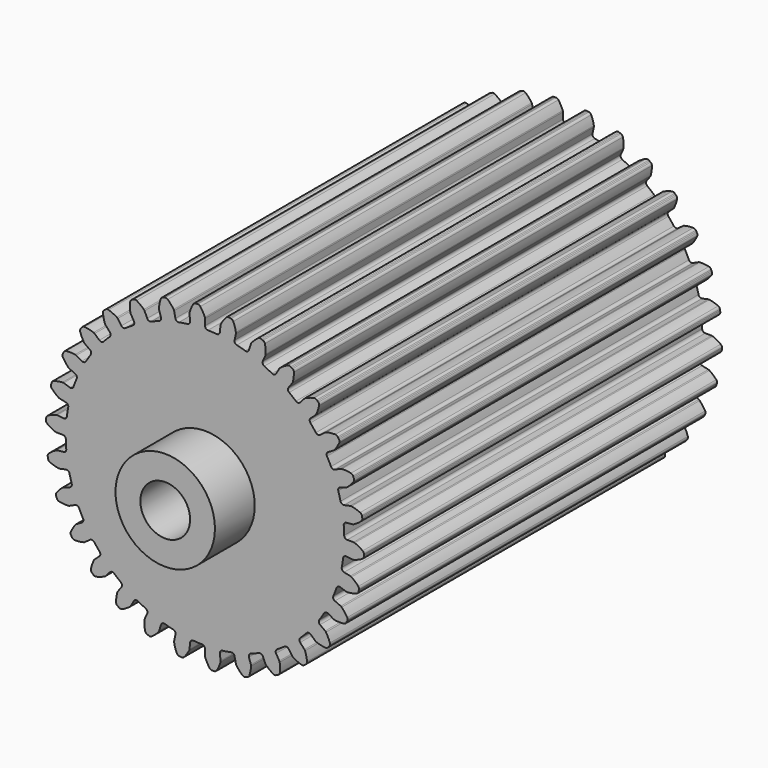
from build123d import *

# Parameters (mm, degrees)
F0_R      = 35.56
F1_DEPTH  = 57.15
F2_DEPTH  = 57.15
F4_DEPTH  = 57.15
F5_DEPTH  = 57.15
F7_R      = 12.7
F8_DEPTH  = 12.7
F9_R      = 6.35
F10_DEPTH = 127


with BuildPart() as f1:
    # F0 (on Front) → F1 (new body)
    with BuildSketch(Plane.XZ):
        Circle(F0_R)
    extrude(amount=F1_DEPTH)

    # F2 (add): a face of the model
    f2_faces = [f1.faces().sort_by_distance(p)[0] for p in [
        (0, 0, 0),
    ]]
    extrude(f2_faces, amount=F2_DEPTH)

    # F3 (on face) → F4 (join)
    with BuildSketch(Plane.XZ.offset(57.15)):
        with BuildLine():
            ThreePointArc((0, 37.9554687227), (-0.0139272083, 38.1004897499), (-0.0551997331, 38.2402096273))
            ThreePointArc((-0.0551997331, 38.2402096273), (-0.5573849588, 39.2950319065), (-1.1849257697, 40.2804417563))
            ThreePointArc((-1.1849257697, 40.2804417563), (-1.4733359372, 40.5202701245), (-1.8412279523, 40.5934379869))
            Line((-1.8412279523, 40.5934379869), (-2.1266280655, 40.5784808008))
            Line((-2.1266280655, 40.5784808008), (-2.4120281786, 40.5635236147))
            ThreePointArc((-2.4120281786, 40.5635236147), (-2.7702567185, 40.4523013865), (-3.0320180542, 40.1836397516))
            ThreePointArc((-3.0320180542, 40.1836397516), (-3.5531177536, 39.1380322034), (-3.9422930042, 38.0364957011))
            ThreePointArc((-3.9422930042, 38.0364957011), (-3.9687347297, 37.8932270702), (-3.9674268182, 37.7475446937))
            Line((-3.9674268182, 37.7475446937), (-3.7958472541, 36.1150741883))
            ThreePointArc((-3.7958472541, 36.1150741883), (-3.9564898602, 35.5621198218), (-4.4581413383, 35.2794355937))
            ThreePointArc((-4.4581413383, 35.2794355937), (-1.861066604, 35.5112662559), (0.746013986, 35.5521738173))
            ThreePointArc((0.746013986, 35.5521738173), (0.2175620592, 35.7808726135), (0, 36.3140061133))
            Line((0, 36.3140061133), (0, 37.9554687227))
        make_face()
        with BuildLine():
            ThreePointArc((-11.6957273592, 33.5815955776), (-9.2036052438, 34.3483223828), (-6.6620007801, 34.9303785494))
            ThreePointArc((-6.6620007801, 34.9303785494), (-7.2264539177, 35.0442083946), (-7.5501064114, 35.5204579528))
            Line((-7.5501064114, 35.5204579528), (-7.8913856779, 37.1260506659))
            ThreePointArc((-7.8913856779, 37.1260506659), (-7.9351601103, 37.2650070062), (-8.0045801273, 37.3930926286))
            ThreePointArc((-8.0045801273, 37.3930926286), (-8.7151012845, 38.3204543308), (-9.5338070511, 39.1538575402))
            ThreePointArc((-9.5338070511, 39.1538575402), (-9.865777886, 39.3284812375), (-10.2408430319, 39.3235611557))
            Line((-10.2408430319, 39.3235611557), (-10.516896694, 39.2495927999))
            Line((-10.516896694, 39.2495927999), (-10.792950356, 39.1756244441))
            ThreePointArc((-10.792950356, 39.1756244441), (-11.1202263414, 38.992352787), (-11.320409669, 38.6751388115))
            ThreePointArc((-11.320409669, 38.6751388115), (-11.6127280565, 37.5440375773), (-11.7643765774, 36.3856582061))
            ThreePointArc((-11.7643765774, 36.3856582061), (-11.7604532645, 36.2400227947), (-11.7288848648, 36.0977958578))
            Line((-11.7288848648, 36.0977958578), (-11.2216450229, 34.5366721469))
            ThreePointArc((-11.2216450229, 34.5366721469), (-11.2638115253, 33.9624016841), (-11.6957273592, 33.5815955776))
        make_face()
        with BuildLine():
            ThreePointArc((-18.4221539721, 30.4160786925), (-16.1439021707, 31.6841920001), (-13.7788541442, 32.7819581244))
            ThreePointArc((-13.7788541442, 32.7819581244), (-14.3546391821, 32.7759441082), (-14.7702369432, 33.1744953337))
            Line((-14.7702369432, 33.1744953337), (-15.4378799347, 34.6740460444))
            ThreePointArc((-15.4378799347, 34.6740460444), (-15.5095884383, 34.800864639), (-15.6041219597, 34.9117180502))
            ThreePointArc((-15.6041219597, 34.9117180502), (-16.4919258644, 35.671089019), (-17.4660152161, 36.3160618685))
            ThreePointArc((-17.4660152161, 36.3160618685), (-17.827038, 36.4178490015), (-18.19288413, 36.3350560066))
            Line((-18.19288413, 36.3350560066), (-18.4475264713, 36.2053092532))
            Line((-18.4475264713, 36.2053092532), (-18.7021688126, 36.0755624998))
            ThreePointArc((-18.7021688126, 36.0755624998), (-18.9841887123, 35.8282512646), (-19.11404506, 35.4763487215))
            ThreePointArc((-19.11404506, 35.4763487215), (-19.1648064192, 34.3091883529), (-19.0723004425, 33.1445928498))
            ThreePointArc((-19.0723004425, 33.1445928498), (-19.0381835588, 33.0029556242), (-18.9777343614, 32.8704001264))
            Line((-18.9777343614, 32.8704001264), (-18.1570030567, 31.4488518073))
            ThreePointArc((-18.1570030567, 31.4488518073), (-18.078850577, 30.8783636232), (-18.4221539721, 30.4160786925))
        make_face()
        with BuildLine():
            ThreePointArc((-24.3434440572, 25.921233216), (-22.3786331057, 27.6353103894), (-20.293505464, 29.2008088241))
            ThreePointArc((-20.293505464, 29.2008088241), (-20.8554578331, 29.0752137878), (-21.3448372451, 29.3786480795))
            Line((-21.3448372451, 29.3786480795), (-22.3096647591, 30.7066192262))
            ThreePointArc((-22.3096647591, 30.7066192262), (-22.4061733283, 30.815757494), (-22.5216887856, 30.9045338679))
            ThreePointArc((-22.5216887856, 30.9045338679), (-23.547974147, 31.4627259482), (-24.6348747049, 31.8910800293))
            ThreePointArc((-24.6348747049, 31.8910800293), (-25.0091710097, 31.9155820118), (-25.3498088925, 31.7585345551))
            Line((-25.3498088925, 31.7585345551), (-25.5719108208, 31.5786799598))
            Line((-25.5719108208, 31.5786799598), (-25.7940127491, 31.3988253645))
            ThreePointArc((-25.7940127491, 31.3988253645), (-26.0184509403, 31.098283239), (-26.0723049625, 30.7270719579))
            ThreePointArc((-26.0723049625, 30.7270719579), (-25.8792907785, 29.5748629637), (-25.5466732592, 28.4549497406))
            ThreePointArc((-25.5466732592, 28.4549497406), (-25.4838538761, 28.3235009271), (-25.3971658011, 28.2064101799))
            Line((-25.3971658011, 28.2064101799), (-24.2988129299, 26.9865657355))
            ThreePointArc((-24.2988129299, 26.9865657355), (-24.1037571065, 26.4447929012), (-24.3434440572, 25.921233216))
        make_face()
        with BuildLine():
            ThreePointArc((-29.2008088241, 20.293505464), (-27.6353103894, 22.3786331057), (-25.921233216, 24.3434440572))
            ThreePointArc((-25.921233216, 24.3434440572), (-26.4447929012, 24.1037571065), (-26.9865657355, 24.2988129299))
            Line((-26.9865657355, 24.2988129299), (-28.2064101799, 25.3971658011))
            ThreePointArc((-28.2064101799, 25.3971658011), (-28.3235009271, 25.4838538761), (-28.4549497406, 25.5466732592))
            ThreePointArc((-28.4549497406, 25.5466732592), (-29.5748629637, 25.8792907785), (-30.7270719579, 26.0723049625))
            ThreePointArc((-30.7270719579, 26.0723049625), (-31.098283239, 26.0184509403), (-31.3988253645, 25.7940127491))
            Line((-31.3988253645, 25.7940127491), (-31.5786799598, 25.5719108208))
            Line((-31.5786799598, 25.5719108208), (-31.7585345551, 25.3498088925))
            ThreePointArc((-31.7585345551, 25.3498088925), (-31.9155820118, 25.0091710097), (-31.8910800293, 24.6348747049))
            ThreePointArc((-31.8910800293, 24.6348747049), (-31.4627259482, 23.547974147), (-30.9045338679, 22.5216887856))
            ThreePointArc((-30.9045338679, 22.5216887856), (-30.815757494, 22.4061733283), (-30.7066192262, 22.3096647591))
            Line((-30.7066192262, 22.3096647591), (-29.3786480795, 21.3448372451))
            ThreePointArc((-29.3786480795, 21.3448372451), (-29.0752137878, 20.8554578331), (-29.2008088241, 20.293505464))
        make_face()
        with BuildLine():
            ThreePointArc((-32.7819581244, 13.7788541442), (-31.6841920001, 16.1439021707), (-30.4160786925, 18.4221539721))
            ThreePointArc((-30.4160786925, 18.4221539721), (-30.8783636232, 18.078850577), (-31.4488518073, 18.1570030567))
            Line((-31.4488518073, 18.1570030567), (-32.8704001264, 18.9777343614))
            ThreePointArc((-32.8704001264, 18.9777343614), (-33.0029556242, 19.0381835588), (-33.1445928498, 19.0723004425))
            ThreePointArc((-33.1445928498, 19.0723004425), (-34.3091883529, 19.1648064192), (-35.4763487215, 19.11404506))
            ThreePointArc((-35.4763487215, 19.11404506), (-35.8282512646, 18.9841887123), (-36.0755624998, 18.7021688126))
            Line((-36.0755624998, 18.7021688126), (-36.2053092532, 18.4475264713))
            Line((-36.2053092532, 18.4475264713), (-36.3350560066, 18.19288413))
            ThreePointArc((-36.3350560066, 18.19288413), (-36.4178490015, 17.827038), (-36.3160618685, 17.4660152161))
            ThreePointArc((-36.3160618685, 17.4660152161), (-35.671089019, 16.4919258644), (-34.9117180502, 15.6041219597))
            ThreePointArc((-34.9117180502, 15.6041219597), (-34.800864639, 15.5095884383), (-34.6740460444, 15.4378799347))
            Line((-34.6740460444, 15.4378799347), (-33.1744953337, 14.7702369432))
            ThreePointArc((-33.1744953337, 14.7702369432), (-32.7759441082, 14.3546391821), (-32.7819581244, 13.7788541442))
        make_face()
        with BuildLine():
            ThreePointArc((-34.9303785494, 6.6620007801), (-34.3483223828, 9.2036052438), (-33.5815955776, 11.6957273592))
            ThreePointArc((-33.5815955776, 11.6957273592), (-33.9624016841, 11.2638115253), (-34.5366721469, 11.2216450229))
            Line((-34.5366721469, 11.2216450229), (-36.0977958578, 11.7288848648))
            ThreePointArc((-36.0977958578, 11.7288848648), (-36.2400227947, 11.7604532645), (-36.3856582061, 11.7643765774))
            ThreePointArc((-36.3856582061, 11.7643765774), (-37.5440375773, 11.6127280565), (-38.6751388115, 11.320409669))
            ThreePointArc((-38.6751388115, 11.320409669), (-38.992352787, 11.1202263414), (-39.1756244441, 10.792950356))
            Line((-39.1756244441, 10.792950356), (-39.2495927999, 10.516896694))
            Line((-39.2495927999, 10.516896694), (-39.3235611557, 10.2408430319))
            ThreePointArc((-39.3235611557, 10.2408430319), (-39.3284812375, 9.865777886), (-39.1538575402, 9.5338070511))
            ThreePointArc((-39.1538575402, 9.5338070511), (-38.3204543308, 8.7151012845), (-37.3930926286, 8.0045801273))
            ThreePointArc((-37.3930926286, 8.0045801273), (-37.2650070062, 7.9351601103), (-37.1260506659, 7.8913856779))
            Line((-37.1260506659, 7.8913856779), (-35.5204579528, 7.5501064114))
            ThreePointArc((-35.5204579528, 7.5501064114), (-35.0442083946, 7.2264539177), (-34.9303785494, 6.6620007801))
        make_face()
        with BuildLine():
            ThreePointArc((-35.5521738173, -0.746013986), (-35.5112662559, 1.861066604), (-35.2794355937, 4.4581413383))
            ThreePointArc((-35.2794355937, 4.4581413383), (-35.5621198218, 3.9564898602), (-36.1150741883, 3.7958472541))
            Line((-36.1150741883, 3.7958472541), (-37.7475446937, 3.9674268182))
            ThreePointArc((-37.7475446937, 3.9674268182), (-37.8932270702, 3.9687347297), (-38.0364957011, 3.9422930042))
            ThreePointArc((-38.0364957011, 3.9422930042), (-39.1380322034, 3.5531177536), (-40.1836397516, 3.0320180542))
            ThreePointArc((-40.1836397516, 3.0320180542), (-40.4523013865, 2.7702567185), (-40.5635236147, 2.4120281786))
            Line((-40.5635236147, 2.4120281786), (-40.5784808008, 2.1266280654))
            Line((-40.5784808008, 2.1266280654), (-40.5934379869, 1.8412279523))
            ThreePointArc((-40.5934379869, 1.8412279523), (-40.5202701245, 1.4733359372), (-40.2804417563, 1.1849257697))
            ThreePointArc((-40.2804417563, 1.1849257697), (-39.2950319065, 0.5573849588), (-38.2402096273, 0.0551997331))
            ThreePointArc((-38.2402096273, 0.0551997331), (-38.1004897499, 0.0139272083), (-37.9554687227, 0))
            Line((-37.9554687227, 0), (-36.3140061133, 0))
            ThreePointArc((-36.3140061133, 0), (-35.7808726135, -0.2175620592), (-35.5521738173, -0.746013986))
        make_face()
        with BuildLine():
            ThreePointArc((-34.620168491, -8.1214243611), (-35.1221973916, -5.5628095768), (-35.4353949847, -2.9742868516))
            ThreePointArc((-35.4353949847, -2.9742868516), (-35.6076026772, -3.5237493971), (-36.1150741883, -3.7958472541))
            Line((-36.1150741883, -3.7958472541), (-37.7475446937, -3.9674268182))
            ThreePointArc((-37.7475446937, -3.9674268182), (-37.8903154908, -3.9964365569), (-38.0249558145, -4.0520876906))
            ThreePointArc((-38.0249558145, -4.0520876906), (-39.021507017, -4.6617808449), (-39.935922812, -5.3888872989))
            ThreePointArc((-39.935922812, -5.3888872989), (-40.1442903037, -5.7007864161), (-40.1786021579, -6.0743112045))
            Line((-40.1786021579, -6.0743112045), (-40.1338944736, -6.3565844142))
            Line((-40.1338944736, -6.3565844142), (-40.0891867892, -6.638857624))
            ThreePointArc((-40.0891867892, -6.638857624), (-39.9411287692, -6.9834978619), (-39.6465773807, -7.2157424538))
            ThreePointArc((-39.6465773807, -7.2157424538), (-38.5522280293, -7.6246917643), (-37.4160459683, -7.8965931543))
            ThreePointArc((-37.4160459683, -7.8965931543), (-37.2707982651, -7.9079143795), (-37.1260506659, -7.8913856779))
            Line((-37.1260506659, -7.8913856779), (-35.5204579528, -7.5501064114))
            ThreePointArc((-35.5204579528, -7.5501064114), (-34.9537410034, -7.6520695303), (-34.620168491, -8.1214243611))
        make_face()
        with BuildLine():
            ThreePointArc((-32.1750956757, -15.1418895207), (-33.1981199662, -12.7435642858), (-34.0426575771, -10.2767244339))
            ThreePointArc((-34.0426575771, -10.2767244339), (-34.0968624314, -10.849983897), (-34.5366721469, -11.2216450229))
            Line((-34.5366721469, -11.2216450229), (-36.0977958578, -11.7288848648))
            ThreePointArc((-36.0977958578, -11.7288848648), (-36.2314153066, -11.7869443889), (-36.3515428949, -11.8693727091))
            ThreePointArc((-36.3515428949, -11.8693727091), (-37.199554728, -12.6729372507), (-37.9428144117, -13.5742724182))
            ThreePointArc((-37.9428144117, -13.5742724182), (-38.0817811009, -13.9226778289), (-38.0376829885, -14.2951740401))
            Line((-38.0376829885, -14.2951740401), (-37.935264374, -14.5619836528))
            Line((-37.935264374, -14.5619836528), (-37.8328457595, -14.8287932654))
            ThreePointArc((-37.8328457595, -14.8287932654), (-37.6163684279, -15.135119294), (-37.2799673282, -15.301048107))
            ThreePointArc((-37.2799673282, -15.301048107), (-36.1245067931, -15.4735328699), (-34.9566215584, -15.5032670289))
            ThreePointArc((-34.9566215584, -15.5032670289), (-34.8121940509, -15.4841421625), (-34.6740460444, -15.4378799347))
            Line((-34.6740460444, -15.4378799347), (-33.1744953337, -14.7702369432))
            ThreePointArc((-33.1744953337, -14.7702369432), (-32.5989631849, -14.7521448441), (-32.1750956757, -15.1418895207))
        make_face()
        with BuildLine():
            ThreePointArc((-28.3238167862, -21.5005814495), (-29.8231253961, -19.3673640851), (-31.1620926785, -17.1300198452))
            ThreePointArc((-31.1620926785, -17.1300198452), (-31.0959256825, -17.7020220365), (-31.4488518073, -18.1570030567))
            Line((-31.4488518073, -18.1570030567), (-32.8704001264, -18.9777343614))
            ThreePointArc((-32.8704001264, -18.9777343614), (-32.9890284159, -19.0623061911), (-33.0893931167, -19.1679091848))
            ThreePointArc((-33.0893931167, -19.1679091848), (-33.7518033941, -20.1302254872), (-34.2914229518, -21.1663966963))
            ThreePointArc((-34.2914229518, -21.1663966963), (-34.3549153274, -21.5360814122), (-34.2343345475, -21.8912691743))
            Line((-34.2343345475, -21.8912691743), (-34.0786811878, -22.1309543295))
            Line((-34.0786811878, -22.1309543295), (-33.923027828, -22.3706394846))
            ThreePointArc((-33.923027828, -22.3706394846), (-33.6475922829, -22.6252633865), (-33.2840438143, -22.7176245354))
            ThreePointArc((-33.2840438143, -22.7176245354), (-32.1179712655, -22.6461063389), (-30.969425046, -22.4323737413))
            ThreePointArc((-30.969425046, -22.4323737413), (-30.8321299093, -22.3836386319), (-30.7066192262, -22.3096647591))
            Line((-30.7066192262, -22.3096647591), (-29.3786480795, -21.3448372451))
            ThreePointArc((-29.3786480795, -21.3448372451), (-28.819454248, -21.2074806396), (-28.3238167862, -21.5005814495))
        make_face()
        with BuildLine():
            ThreePointArc((-23.2346511903, -26.9195947976), (-25.144717139, -25.144717139), (-26.9195947976, -23.2346511903))
            ThreePointArc((-26.9195947976, -23.2346511903), (-26.7359477664, -23.7803968694), (-26.9865657355, -24.2988129299))
            Line((-26.9865657355, -24.2988129299), (-28.2064101799, -25.3971658011))
            ThreePointArc((-28.2064101799, -25.3971658011), (-28.3048626844, -25.5045537417), (-28.3810780788, -25.6287160512))
            ThreePointArc((-28.3810780788, -25.6287160512), (-28.8289362928, -26.7077262744), (-29.1413317604, -27.8334478711))
            ThreePointArc((-29.1413317604, -27.8334478711), (-29.126574901, -28.2082548961), (-28.9347814122, -28.5306107997))
            Line((-28.9347814122, -28.5306107997), (-28.7326961059, -28.7326961059))
            Line((-28.7326961059, -28.7326961059), (-28.5306107997, -28.9347814122))
            ThreePointArc((-28.5306107997, -28.9347814122), (-28.2082548961, -29.126574901), (-27.8334478711, -29.1413317604))
            ThreePointArc((-27.8334478711, -29.1413317604), (-26.7077262744, -28.8289362928), (-25.6287160512, -28.3810780788))
            ThreePointArc((-25.6287160512, -28.3810780788), (-25.5045537417, -28.3048626844), (-25.3971658011, -28.2064101799))
            Line((-25.3971658011, -28.2064101799), (-24.2988129299, -26.9865657355))
            ThreePointArc((-24.2988129299, -26.9865657355), (-23.7803968694, -26.7359477664), (-23.2346511903, -26.9195947976))
        make_face()
        with BuildLine():
            ThreePointArc((-17.1300198452, -31.1620926785), (-19.3673640851, -29.8231253961), (-21.5005814495, -28.3238167862))
            ThreePointArc((-21.5005814495, -28.3238167862), (-21.2074806396, -28.819454248), (-21.3448372451, -29.3786480795))
            Line((-21.3448372451, -29.3786480795), (-22.3096647591, -30.7066192262))
            ThreePointArc((-22.3096647591, -30.7066192262), (-22.3836386319, -30.8321299093), (-22.4323737413, -30.969425046))
            ThreePointArc((-22.4323737413, -30.969425046), (-22.6461063389, -32.1179712655), (-22.7176245354, -33.2840438143))
            ThreePointArc((-22.7176245354, -33.2840438143), (-22.6252633865, -33.6475922829), (-22.3706394846, -33.923027828))
            Line((-22.3706394846, -33.923027828), (-22.1309543295, -34.0786811878))
            Line((-22.1309543295, -34.0786811878), (-21.8912691743, -34.2343345475))
            ThreePointArc((-21.8912691743, -34.2343345475), (-21.5360814122, -34.3549153274), (-21.1663966963, -34.2914229518))
            ThreePointArc((-21.1663966963, -34.2914229518), (-20.1302254872, -33.7518033941), (-19.1679091848, -33.0893931167))
            ThreePointArc((-19.1679091848, -33.0893931167), (-19.0623061911, -32.9890284159), (-18.9777343614, -32.8704001264))
            Line((-18.9777343614, -32.8704001264), (-18.1570030567, -31.4488518073))
            ThreePointArc((-18.1570030567, -31.4488518073), (-17.7020220365, -31.0959256825), (-17.1300198452, -31.1620926785))
        make_face()
        with BuildLine():
            ThreePointArc((-10.2767244339, -34.0426575771), (-12.7435642858, -33.1981199662), (-15.1418895207, -32.1750956757))
            ThreePointArc((-15.1418895207, -32.1750956757), (-14.7521448441, -32.5989631849), (-14.7702369432, -33.1744953337))
            Line((-14.7702369432, -33.1744953337), (-15.4378799347, -34.6740460444))
            ThreePointArc((-15.4378799347, -34.6740460444), (-15.4841421625, -34.8121940509), (-15.5032670289, -34.9566215584))
            ThreePointArc((-15.5032670289, -34.9566215584), (-15.4735328699, -36.1245067931), (-15.301048107, -37.2799673282))
            ThreePointArc((-15.301048107, -37.2799673282), (-15.135119294, -37.6163684279), (-14.8287932654, -37.8328457595))
            Line((-14.8287932654, -37.8328457595), (-14.5619836528, -37.935264374))
            Line((-14.5619836528, -37.935264374), (-14.2951740401, -38.0376829885))
            ThreePointArc((-14.2951740401, -38.0376829885), (-13.9226778289, -38.0817811009), (-13.5742724182, -37.9428144117))
            ThreePointArc((-13.5742724182, -37.9428144117), (-12.6729372507, -37.199554728), (-11.8693727091, -36.3515428949))
            ThreePointArc((-11.8693727091, -36.3515428949), (-11.7869443889, -36.2314153066), (-11.7288848648, -36.0977958578))
            Line((-11.7288848648, -36.0977958578), (-11.2216450229, -34.5366721469))
            ThreePointArc((-11.2216450229, -34.5366721469), (-10.849983897, -34.0968624314), (-10.2767244339, -34.0426575771))
        make_face()
        with BuildLine():
            ThreePointArc((-2.9742868516, -35.4353949847), (-5.5628095768, -35.1221973916), (-8.1214243611, -34.620168491))
            ThreePointArc((-8.1214243611, -34.620168491), (-7.6520695303, -34.9537410034), (-7.5501064114, -35.5204579528))
            Line((-7.5501064114, -35.5204579528), (-7.8913856779, -37.1260506659))
            ThreePointArc((-7.8913856779, -37.1260506659), (-7.9079143795, -37.2707982651), (-7.8965931543, -37.4160459683))
            ThreePointArc((-7.8965931543, -37.4160459683), (-7.6246917643, -38.5522280293), (-7.2157424538, -39.6465773807))
            ThreePointArc((-7.2157424538, -39.6465773807), (-6.9834978619, -39.9411287692), (-6.638857624, -40.0891867892))
            Line((-6.638857624, -40.0891867892), (-6.3565844142, -40.1338944736))
            Line((-6.3565844142, -40.1338944736), (-6.0743112045, -40.1786021579))
            ThreePointArc((-6.0743112045, -40.1786021579), (-5.7007864161, -40.1442903037), (-5.3888872989, -39.935922812))
            ThreePointArc((-5.3888872989, -39.935922812), (-4.6617808449, -39.021507017), (-4.0520876906, -38.0249558145))
            ThreePointArc((-4.0520876906, -38.0249558145), (-3.9964365569, -37.8903154908), (-3.9674268182, -37.7475446937))
            Line((-3.9674268182, -37.7475446937), (-3.7958472541, -36.1150741883))
            ThreePointArc((-3.7958472541, -36.1150741883), (-3.5237493971, -35.6076026772), (-2.9742868516, -35.4353949847))
        make_face()
        with BuildLine():
            ThreePointArc((4.4581413383, -35.2794355937), (1.861066604, -35.5112662559), (-0.746013986, -35.5521738173))
            ThreePointArc((-0.746013986, -35.5521738173), (-0.2175620592, -35.7808726135), (0, -36.3140061133))
            Line((0, -36.3140061133), (0, -37.9554687227))
            ThreePointArc((0, -37.9554687227), (0.0139272083, -38.1004897499), (0.0551997331, -38.2402096273))
            ThreePointArc((0.0551997331, -38.2402096273), (0.5573849588, -39.2950319065), (1.1849257697, -40.2804417563))
            ThreePointArc((1.1849257697, -40.2804417563), (1.4733359372, -40.5202701245), (1.8412279523, -40.5934379869))
            Line((1.8412279523, -40.5934379869), (2.1266280655, -40.5784808008))
            Line((2.1266280655, -40.5784808008), (2.4120281786, -40.5635236147))
            ThreePointArc((2.4120281786, -40.5635236147), (2.7702567185, -40.4523013865), (3.0320180542, -40.1836397516))
            ThreePointArc((3.0320180542, -40.1836397516), (3.5531177536, -39.1380322034), (3.9422930042, -38.0364957011))
            ThreePointArc((3.9422930042, -38.0364957011), (3.9687347297, -37.8932270702), (3.9674268182, -37.7475446937))
            Line((3.9674268182, -37.7475446937), (3.7958472541, -36.1150741883))
            ThreePointArc((3.7958472541, -36.1150741883), (3.9564898602, -35.5621198218), (4.4581413383, -35.2794355937))
        make_face()
        with BuildLine():
            ThreePointArc((11.6957273592, -33.5815955776), (9.2036052438, -34.3483223828), (6.6620007801, -34.9303785494))
            ThreePointArc((6.6620007801, -34.9303785494), (7.2264539177, -35.0442083946), (7.5501064114, -35.5204579528))
            Line((7.5501064114, -35.5204579528), (7.8913856779, -37.1260506659))
            ThreePointArc((7.8913856779, -37.1260506659), (7.9351601103, -37.2650070062), (8.0045801273, -37.3930926286))
            ThreePointArc((8.0045801273, -37.3930926286), (8.7151012845, -38.3204543308), (9.5338070511, -39.1538575402))
            ThreePointArc((9.5338070511, -39.1538575402), (9.865777886, -39.3284812375), (10.2408430319, -39.3235611557))
            Line((10.2408430319, -39.3235611557), (10.516896694, -39.2495927999))
            Line((10.516896694, -39.2495927999), (10.792950356, -39.1756244441))
            ThreePointArc((10.792950356, -39.1756244441), (11.1202263414, -38.992352787), (11.320409669, -38.6751388115))
            ThreePointArc((11.320409669, -38.6751388115), (11.6127280565, -37.5440375773), (11.7643765774, -36.3856582061))
            ThreePointArc((11.7643765774, -36.3856582061), (11.7604532645, -36.2400227947), (11.7288848648, -36.0977958578))
            Line((11.7288848648, -36.0977958578), (11.2216450229, -34.5366721469))
            ThreePointArc((11.2216450229, -34.5366721469), (11.2638115253, -33.9624016841), (11.6957273592, -33.5815955776))
        make_face()
        with BuildLine():
            ThreePointArc((18.4221539721, -30.4160786925), (16.1439021707, -31.6841920001), (13.7788541442, -32.7819581244))
            ThreePointArc((13.7788541442, -32.7819581244), (14.3546391821, -32.7759441082), (14.7702369432, -33.1744953337))
            Line((14.7702369432, -33.1744953337), (15.4378799347, -34.6740460444))
            ThreePointArc((15.4378799347, -34.6740460444), (15.5095884383, -34.800864639), (15.6041219597, -34.9117180502))
            ThreePointArc((15.6041219597, -34.9117180502), (16.4919258644, -35.671089019), (17.4660152161, -36.3160618685))
            ThreePointArc((17.4660152161, -36.3160618685), (17.827038, -36.4178490015), (18.19288413, -36.3350560066))
            Line((18.19288413, -36.3350560066), (18.4475264713, -36.2053092532))
            Line((18.4475264713, -36.2053092532), (18.7021688126, -36.0755624998))
            ThreePointArc((18.7021688126, -36.0755624998), (18.9841887123, -35.8282512646), (19.11404506, -35.4763487215))
            ThreePointArc((19.11404506, -35.4763487215), (19.1648064192, -34.3091883529), (19.0723004425, -33.1445928498))
            ThreePointArc((19.0723004425, -33.1445928498), (19.0381835588, -33.0029556242), (18.9777343614, -32.8704001264))
            Line((18.9777343614, -32.8704001264), (18.1570030567, -31.4488518073))
            ThreePointArc((18.1570030567, -31.4488518073), (18.078850577, -30.8783636232), (18.4221539721, -30.4160786925))
        make_face()
        with BuildLine():
            ThreePointArc((24.3434440572, -25.921233216), (22.3786331057, -27.6353103894), (20.293505464, -29.2008088241))
            ThreePointArc((20.293505464, -29.2008088241), (20.8554578331, -29.0752137878), (21.3448372451, -29.3786480795))
            Line((21.3448372451, -29.3786480795), (22.3096647591, -30.7066192262))
            ThreePointArc((22.3096647591, -30.7066192262), (22.4061733283, -30.815757494), (22.5216887856, -30.9045338679))
            ThreePointArc((22.5216887856, -30.9045338679), (23.547974147, -31.4627259482), (24.6348747049, -31.8910800293))
            ThreePointArc((24.6348747049, -31.8910800293), (25.0091710097, -31.9155820118), (25.3498088925, -31.7585345551))
            Line((25.3498088925, -31.7585345551), (25.5719108208, -31.5786799598))
            Line((25.5719108208, -31.5786799598), (25.7940127491, -31.3988253645))
            ThreePointArc((25.7940127491, -31.3988253645), (26.0184509403, -31.098283239), (26.0723049625, -30.7270719579))
            ThreePointArc((26.0723049625, -30.7270719579), (25.8792907785, -29.5748629637), (25.5466732592, -28.4549497406))
            ThreePointArc((25.5466732592, -28.4549497406), (25.4838538761, -28.3235009271), (25.3971658011, -28.2064101799))
            Line((25.3971658011, -28.2064101799), (24.2988129299, -26.9865657355))
            ThreePointArc((24.2988129299, -26.9865657355), (24.1037571065, -26.4447929012), (24.3434440572, -25.921233216))
        make_face()
        with BuildLine():
            ThreePointArc((29.2008088241, -20.293505464), (27.6353103894, -22.3786331057), (25.921233216, -24.3434440572))
            ThreePointArc((25.921233216, -24.3434440572), (26.4447929012, -24.1037571065), (26.9865657355, -24.2988129299))
            Line((26.9865657355, -24.2988129299), (28.2064101799, -25.3971658011))
            ThreePointArc((28.2064101799, -25.3971658011), (28.3235009271, -25.4838538761), (28.4549497406, -25.5466732592))
            ThreePointArc((28.4549497406, -25.5466732592), (29.5748629637, -25.8792907785), (30.7270719579, -26.0723049625))
            ThreePointArc((30.7270719579, -26.0723049625), (31.098283239, -26.0184509403), (31.3988253645, -25.7940127491))
            Line((31.3988253645, -25.7940127491), (31.5786799598, -25.5719108208))
            Line((31.5786799598, -25.5719108208), (31.7585345551, -25.3498088925))
            ThreePointArc((31.7585345551, -25.3498088925), (31.9155820118, -25.0091710097), (31.8910800293, -24.6348747049))
            ThreePointArc((31.8910800293, -24.6348747049), (31.4627259482, -23.547974147), (30.9045338679, -22.5216887856))
            ThreePointArc((30.9045338679, -22.5216887856), (30.815757494, -22.4061733283), (30.7066192262, -22.3096647591))
            Line((30.7066192262, -22.3096647591), (29.3786480795, -21.3448372451))
            ThreePointArc((29.3786480795, -21.3448372451), (29.0752137878, -20.8554578331), (29.2008088241, -20.293505464))
        make_face()
        with BuildLine():
            ThreePointArc((32.7819581244, -13.7788541442), (31.6841920001, -16.1439021707), (30.4160786925, -18.4221539721))
            ThreePointArc((30.4160786925, -18.4221539721), (30.8783636232, -18.078850577), (31.4488518073, -18.1570030567))
            Line((31.4488518073, -18.1570030567), (32.8704001264, -18.9777343614))
            ThreePointArc((32.8704001264, -18.9777343614), (33.0029556242, -19.0381835588), (33.1445928498, -19.0723004425))
            ThreePointArc((33.1445928498, -19.0723004425), (34.3091883529, -19.1648064192), (35.4763487215, -19.11404506))
            ThreePointArc((35.4763487215, -19.11404506), (35.8282512646, -18.9841887123), (36.0755624998, -18.7021688126))
            Line((36.0755624998, -18.7021688126), (36.2053092532, -18.4475264713))
            Line((36.2053092532, -18.4475264713), (36.3350560066, -18.19288413))
            ThreePointArc((36.3350560066, -18.19288413), (36.4178490015, -17.827038), (36.3160618685, -17.4660152161))
            ThreePointArc((36.3160618685, -17.4660152161), (35.671089019, -16.4919258644), (34.9117180502, -15.6041219597))
            ThreePointArc((34.9117180502, -15.6041219597), (34.800864639, -15.5095884383), (34.6740460444, -15.4378799347))
            Line((34.6740460444, -15.4378799347), (33.1744953337, -14.7702369432))
            ThreePointArc((33.1744953337, -14.7702369432), (32.7759441082, -14.3546391821), (32.7819581244, -13.7788541442))
        make_face()
        with BuildLine():
            ThreePointArc((34.9303785494, -6.6620007801), (34.3483223828, -9.2036052438), (33.5815955776, -11.6957273592))
            ThreePointArc((33.5815955776, -11.6957273592), (33.9624016841, -11.2638115253), (34.5366721469, -11.2216450229))
            Line((34.5366721469, -11.2216450229), (36.0977958578, -11.7288848648))
            ThreePointArc((36.0977958578, -11.7288848648), (36.2400227947, -11.7604532645), (36.3856582061, -11.7643765774))
            ThreePointArc((36.3856582061, -11.7643765774), (37.5440375773, -11.6127280565), (38.6751388115, -11.320409669))
            ThreePointArc((38.6751388115, -11.320409669), (38.992352787, -11.1202263414), (39.1756244441, -10.792950356))
            Line((39.1756244441, -10.792950356), (39.2495927999, -10.516896694))
            Line((39.2495927999, -10.516896694), (39.3235611557, -10.2408430319))
            ThreePointArc((39.3235611557, -10.2408430319), (39.3284812375, -9.865777886), (39.1538575402, -9.5338070511))
            ThreePointArc((39.1538575402, -9.5338070511), (38.3204543308, -8.7151012845), (37.3930926286, -8.0045801273))
            ThreePointArc((37.3930926286, -8.0045801273), (37.2650070062, -7.9351601103), (37.1260506659, -7.8913856779))
            Line((37.1260506659, -7.8913856779), (35.5204579528, -7.5501064114))
            ThreePointArc((35.5204579528, -7.5501064114), (35.0442083946, -7.2264539177), (34.9303785494, -6.6620007801))
        make_face()
        with BuildLine():
            ThreePointArc((35.5521738173, 0.746013986), (35.5112662559, -1.861066604), (35.2794355937, -4.4581413383))
            ThreePointArc((35.2794355937, -4.4581413383), (35.5621198218, -3.9564898602), (36.1150741883, -3.7958472541))
            Line((36.1150741883, -3.7958472541), (37.7475446937, -3.9674268182))
            ThreePointArc((37.7475446937, -3.9674268182), (37.8932270702, -3.9687347297), (38.0364957011, -3.9422930042))
            ThreePointArc((38.0364957011, -3.9422930042), (39.1380322034, -3.5531177536), (40.1836397516, -3.0320180542))
            ThreePointArc((40.1836397516, -3.0320180542), (40.4523013865, -2.7702567185), (40.5635236147, -2.4120281786))
            Line((40.5635236147, -2.4120281786), (40.5784808008, -2.1266280654))
            Line((40.5784808008, -2.1266280654), (40.5934379869, -1.8412279523))
            ThreePointArc((40.5934379869, -1.8412279523), (40.5202701245, -1.4733359372), (40.2804417563, -1.1849257697))
            ThreePointArc((40.2804417563, -1.1849257697), (39.2950319065, -0.5573849588), (38.2402096273, -0.0551997331))
            ThreePointArc((38.2402096273, -0.0551997331), (38.1004897499, -0.0139272083), (37.9554687227, 0))
            Line((37.9554687227, 0), (36.3140061133, 0))
            ThreePointArc((36.3140061133, 0), (35.7808726135, 0.2175620592), (35.5521738173, 0.746013986))
        make_face()
        with BuildLine():
            ThreePointArc((34.620168491, 8.1214243611), (35.1221973916, 5.5628095768), (35.4353949847, 2.9742868516))
            ThreePointArc((35.4353949847, 2.9742868516), (35.6076026772, 3.5237493971), (36.1150741883, 3.7958472541))
            Line((36.1150741883, 3.7958472541), (37.7475446937, 3.9674268182))
            ThreePointArc((37.7475446937, 3.9674268182), (37.8903154908, 3.9964365569), (38.0249558145, 4.0520876906))
            ThreePointArc((38.0249558145, 4.0520876906), (39.021507017, 4.6617808449), (39.935922812, 5.3888872989))
            ThreePointArc((39.935922812, 5.3888872989), (40.1442903037, 5.7007864161), (40.1786021579, 6.0743112045))
            Line((40.1786021579, 6.0743112045), (40.1338944736, 6.3565844142))
            Line((40.1338944736, 6.3565844142), (40.0891867892, 6.638857624))
            ThreePointArc((40.0891867892, 6.638857624), (39.9411287692, 6.9834978619), (39.6465773807, 7.2157424538))
            ThreePointArc((39.6465773807, 7.2157424538), (38.5522280293, 7.6246917643), (37.4160459683, 7.8965931543))
            ThreePointArc((37.4160459683, 7.8965931543), (37.2707982651, 7.9079143795), (37.1260506659, 7.8913856779))
            Line((37.1260506659, 7.8913856779), (35.5204579528, 7.5501064114))
            ThreePointArc((35.5204579528, 7.5501064114), (34.9537410034, 7.6520695303), (34.620168491, 8.1214243611))
        make_face()
        with BuildLine():
            ThreePointArc((32.1750956757, 15.1418895207), (33.1981199662, 12.7435642858), (34.0426575771, 10.2767244339))
            ThreePointArc((34.0426575771, 10.2767244339), (34.0968624314, 10.849983897), (34.5366721469, 11.2216450229))
            Line((34.5366721469, 11.2216450229), (36.0977958578, 11.7288848648))
            ThreePointArc((36.0977958578, 11.7288848648), (36.2314153066, 11.7869443889), (36.3515428949, 11.8693727091))
            ThreePointArc((36.3515428949, 11.8693727091), (37.199554728, 12.6729372507), (37.9428144117, 13.5742724182))
            ThreePointArc((37.9428144117, 13.5742724182), (38.0817811009, 13.9226778289), (38.0376829885, 14.2951740401))
            Line((38.0376829885, 14.2951740401), (37.935264374, 14.5619836528))
            Line((37.935264374, 14.5619836528), (37.8328457595, 14.8287932654))
            ThreePointArc((37.8328457595, 14.8287932654), (37.6163684279, 15.135119294), (37.2799673282, 15.301048107))
            ThreePointArc((37.2799673282, 15.301048107), (36.1245067931, 15.4735328699), (34.9566215584, 15.5032670289))
            ThreePointArc((34.9566215584, 15.5032670289), (34.8121940509, 15.4841421625), (34.6740460444, 15.4378799347))
            Line((34.6740460444, 15.4378799347), (33.1744953337, 14.7702369432))
            ThreePointArc((33.1744953337, 14.7702369432), (32.5989631849, 14.7521448441), (32.1750956757, 15.1418895207))
        make_face()
        with BuildLine():
            ThreePointArc((28.3238167862, 21.5005814495), (29.8231253961, 19.3673640851), (31.1620926785, 17.1300198452))
            ThreePointArc((31.1620926785, 17.1300198452), (31.0959256825, 17.7020220365), (31.4488518073, 18.1570030567))
            Line((31.4488518073, 18.1570030567), (32.8704001264, 18.9777343614))
            ThreePointArc((32.8704001264, 18.9777343614), (32.9890284159, 19.0623061911), (33.0893931167, 19.1679091848))
            ThreePointArc((33.0893931167, 19.1679091848), (33.7518033941, 20.1302254872), (34.2914229518, 21.1663966963))
            ThreePointArc((34.2914229518, 21.1663966963), (34.3549153274, 21.5360814122), (34.2343345475, 21.8912691743))
            Line((34.2343345475, 21.8912691743), (34.0786811878, 22.1309543295))
            Line((34.0786811878, 22.1309543295), (33.923027828, 22.3706394846))
            ThreePointArc((33.923027828, 22.3706394846), (33.6475922829, 22.6252633865), (33.2840438143, 22.7176245354))
            ThreePointArc((33.2840438143, 22.7176245354), (32.1179712655, 22.6461063389), (30.969425046, 22.4323737413))
            ThreePointArc((30.969425046, 22.4323737413), (30.8321299093, 22.3836386319), (30.7066192262, 22.3096647591))
            Line((30.7066192262, 22.3096647591), (29.3786480795, 21.3448372451))
            ThreePointArc((29.3786480795, 21.3448372451), (28.819454248, 21.2074806396), (28.3238167862, 21.5005814495))
        make_face()
        with BuildLine():
            ThreePointArc((23.2346511903, 26.9195947976), (25.144717139, 25.144717139), (26.9195947976, 23.2346511903))
            ThreePointArc((26.9195947976, 23.2346511903), (26.7359477664, 23.7803968694), (26.9865657355, 24.2988129299))
            Line((26.9865657355, 24.2988129299), (28.2064101799, 25.3971658011))
            ThreePointArc((28.2064101799, 25.3971658011), (28.3048626844, 25.5045537417), (28.3810780788, 25.6287160512))
            ThreePointArc((28.3810780788, 25.6287160512), (28.8289362928, 26.7077262744), (29.1413317604, 27.8334478711))
            ThreePointArc((29.1413317604, 27.8334478711), (29.126574901, 28.2082548961), (28.9347814122, 28.5306107997))
            Line((28.9347814122, 28.5306107997), (28.7326961059, 28.7326961059))
            Line((28.7326961059, 28.7326961059), (28.5306107997, 28.9347814122))
            ThreePointArc((28.5306107997, 28.9347814122), (28.2082548961, 29.126574901), (27.8334478711, 29.1413317604))
            ThreePointArc((27.8334478711, 29.1413317604), (26.7077262744, 28.8289362928), (25.6287160512, 28.3810780788))
            ThreePointArc((25.6287160512, 28.3810780788), (25.5045537417, 28.3048626844), (25.3971658011, 28.2064101799))
            Line((25.3971658011, 28.2064101799), (24.2988129299, 26.9865657355))
            ThreePointArc((24.2988129299, 26.9865657355), (23.7803968694, 26.7359477664), (23.2346511903, 26.9195947976))
        make_face()
        with BuildLine():
            ThreePointArc((17.1300198452, 31.1620926785), (19.3673640851, 29.8231253961), (21.5005814495, 28.3238167862))
            ThreePointArc((21.5005814495, 28.3238167862), (21.2074806396, 28.819454248), (21.3448372451, 29.3786480795))
            Line((21.3448372451, 29.3786480795), (22.3096647591, 30.7066192262))
            ThreePointArc((22.3096647591, 30.7066192262), (22.3836386319, 30.8321299093), (22.4323737413, 30.969425046))
            ThreePointArc((22.4323737413, 30.969425046), (22.6461063389, 32.1179712655), (22.7176245354, 33.2840438143))
            ThreePointArc((22.7176245354, 33.2840438143), (22.6252633865, 33.6475922829), (22.3706394846, 33.923027828))
            Line((22.3706394846, 33.923027828), (22.1309543295, 34.0786811878))
            Line((22.1309543295, 34.0786811878), (21.8912691743, 34.2343345475))
            ThreePointArc((21.8912691743, 34.2343345475), (21.5360814122, 34.3549153274), (21.1663966963, 34.2914229518))
            ThreePointArc((21.1663966963, 34.2914229518), (20.1302254872, 33.7518033941), (19.1679091848, 33.0893931167))
            ThreePointArc((19.1679091848, 33.0893931167), (19.0623061911, 32.9890284159), (18.9777343614, 32.8704001264))
            Line((18.9777343614, 32.8704001264), (18.1570030567, 31.4488518073))
            ThreePointArc((18.1570030567, 31.4488518073), (17.7020220365, 31.0959256825), (17.1300198452, 31.1620926785))
        make_face()
        with BuildLine():
            ThreePointArc((10.2767244339, 34.0426575771), (12.7435642858, 33.1981199662), (15.1418895207, 32.1750956757))
            ThreePointArc((15.1418895207, 32.1750956757), (14.7521448441, 32.5989631849), (14.7702369432, 33.1744953337))
            Line((14.7702369432, 33.1744953337), (15.4378799347, 34.6740460444))
            ThreePointArc((15.4378799347, 34.6740460444), (15.4841421625, 34.8121940509), (15.5032670289, 34.9566215584))
            ThreePointArc((15.5032670289, 34.9566215584), (15.4735328699, 36.1245067931), (15.301048107, 37.2799673282))
            ThreePointArc((15.301048107, 37.2799673282), (15.135119294, 37.6163684279), (14.8287932654, 37.8328457595))
            Line((14.8287932654, 37.8328457595), (14.5619836528, 37.935264374))
            Line((14.5619836528, 37.935264374), (14.2951740401, 38.0376829885))
            ThreePointArc((14.2951740401, 38.0376829885), (13.9226778289, 38.0817811009), (13.5742724182, 37.9428144117))
            ThreePointArc((13.5742724182, 37.9428144117), (12.6729372507, 37.199554728), (11.8693727091, 36.3515428949))
            ThreePointArc((11.8693727091, 36.3515428949), (11.7869443889, 36.2314153066), (11.7288848648, 36.0977958578))
            Line((11.7288848648, 36.0977958578), (11.2216450229, 34.5366721469))
            ThreePointArc((11.2216450229, 34.5366721469), (10.849983897, 34.0968624314), (10.2767244339, 34.0426575771))
        make_face()
        with BuildLine():
            ThreePointArc((2.9742868516, 35.4353949847), (5.5628095768, 35.1221973916), (8.1214243611, 34.620168491))
            ThreePointArc((8.1214243611, 34.620168491), (7.6520695303, 34.9537410034), (7.5501064114, 35.5204579528))
            Line((7.5501064114, 35.5204579528), (7.8913856779, 37.1260506659))
            ThreePointArc((7.8913856779, 37.1260506659), (7.9079143795, 37.2707982651), (7.8965931543, 37.4160459683))
            ThreePointArc((7.8965931543, 37.4160459683), (7.6246917643, 38.5522280293), (7.2157424538, 39.6465773807))
            ThreePointArc((7.2157424538, 39.6465773807), (6.9834978619, 39.9411287692), (6.638857624, 40.0891867892))
            Line((6.638857624, 40.0891867892), (6.3565844142, 40.1338944736))
            Line((6.3565844142, 40.1338944736), (6.0743112045, 40.1786021579))
            ThreePointArc((6.0743112045, 40.1786021579), (5.7007864161, 40.1442903037), (5.3888872989, 39.935922812))
            ThreePointArc((5.3888872989, 39.935922812), (4.6617808449, 39.021507017), (4.0520876906, 38.0249558145))
            ThreePointArc((4.0520876906, 38.0249558145), (3.9964365569, 37.8903154908), (3.9674268182, 37.7475446937))
            Line((3.9674268182, 37.7475446937), (3.7958472541, 36.1150741883))
            ThreePointArc((3.7958472541, 36.1150741883), (3.5237493971, 35.6076026772), (2.9742868516, 35.4353949847))
        make_face()
    extrude(amount=-F4_DEPTH)

    # F5 (add): faces of the model
    f5_faces = [f1.faces().sort_by_distance(p)[0] for p in [
        (-1.9773544719, 0, 37.7301709584),
        (-9.7786881713, 0, 36.4945610866),
        (5.9103991063, 0, 37.3167913098),
        (13.5398398823, 0, 35.2724888152),
        (20.5775246841, 0, 31.6866093031),
        (26.7158729153, 0, 26.7158729153),
        (31.6866093031, 0, 20.5775246841),
        (-17.1526462742, 0, 33.663963775),
        (-23.7769514275, 0, 29.3620897089),
        (-29.3620897089, 0, 23.7769514275),
        (-33.663963775, 0, 17.1526462742),
        (-37.7301709584, 0, 1.9773544719),
        (-36.4945610866, 0, 9.7786881713),
        (-35.2724888152, 0, -13.5398398823),
        (-37.3167913098, 0, -5.9103991063),
        (-31.6866093031, 0, -20.5775246841),
        (-26.7158729153, 0, -26.7158729153),
        (-20.5775246841, 0, -31.6866093031),
        (1.9773544719, 0, -37.7301709584),
        (9.7786881713, 0, -36.4945610866),
        (-13.5398398823, 0, -35.2724888152),
        (-5.9103991063, 0, -37.3167913098),
        (17.1526462742, 0, -33.663963775),
        (23.7769514275, 0, -29.3620897089),
        (35.2724888152, 0, 13.5398398823),
        (37.3167913098, 0, 5.9103991063),
        (37.7301709584, 0, -1.9773544719),
        (36.4945610866, 0, -9.7786881713),
        (33.663963775, 0, -17.1526462742),
        (29.3620897089, 0, -23.7769514275),
    ]]
    extrude(f5_faces, amount=F5_DEPTH)

    # F7 (on face) → F8 (join)
    with BuildSketch(Plane.XZ.offset(57.15)):
        Circle(F7_R)
    extrude(amount=F8_DEPTH)

    # F9 (on face) → F10 (cut)
    with BuildSketch(Plane.XZ.offset(69.85)):
        Circle(F9_R)
    extrude(amount=-F10_DEPTH, mode=Mode.SUBTRACT)


solid = f1.part
